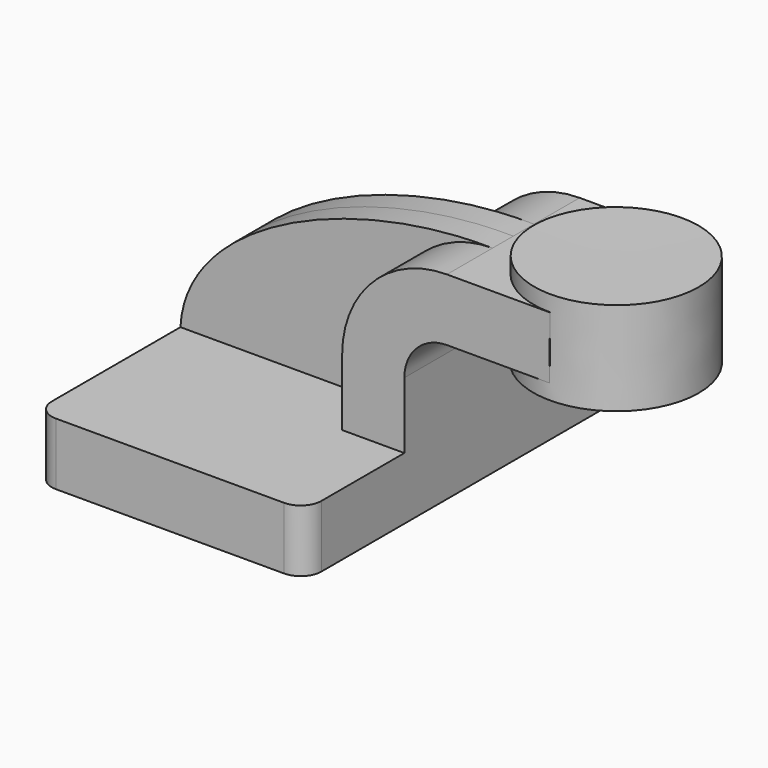
from build123d import *

# Parameters (mm, degrees)
F1_DEPTH = 63.5
F2_DEPTH = 25.4
F3_DEPTH = 7.9375
F5_R     = 6.35


with BuildPart() as f1:
    # F0 (on Front) → F1 (new body, symmetric)
    with BuildSketch(Plane.XZ):
        Polygon((41.275, -9.525), (41.275, 9.525), (22.225, 9.525), (-41.275, 9.525), (-41.275, -9.525), align=None)
    extrude(amount=F1_DEPTH, both=True)

    # F0 (on Front) → F2 (join, symmetric)
    with BuildSketch(Plane.XZ):
        with BuildLine():
            Line((22.225, 9.525), (41.275, 9.525))
            Line((41.275, 9.525), (41.275, 29.8368146303))
            ThreePointArc((41.275, 29.8368146303), (45.0938546591, 39.0563453409), (54.3133853697, 42.8752))
            Line((54.3133853697, 42.8752), (60.325, 42.8752))
            Line((60.325, 42.8752), (60.325, 61.9252))
            Line((60.325, 61.9252), (54.3133853697, 61.9252))
            ThreePointArc((54.3133853697, 61.9252), (31.6234704775, 52.5267295225), (22.225, 29.8368146303))
            Line((22.225, 29.8368146303), (22.225, 9.525))
        make_face()
        Polygon((60.325, 61.9252), (60.325, 42.8752), (85.746810308, 42.8752), (85.8338195154, 61.9252), align=None)
    extrude(amount=F2_DEPTH, both=True)

    # F0 (on Front) → F3 (join, symmetric)
    with BuildSketch(Plane.XZ):
        with BuildLine():
            Line((-41.275, 9.525), (22.225, 9.525))
            Line((22.225, 9.525), (22.225, 29.8368146303))
            ThreePointArc((22.225, 29.8368146303), (31.6234704775, 52.5267295225), (54.3133853697, 61.9252))
            add(Edge.make_bspline(
                [(-41.275, 9.525), (-39.7076308727, 40.4430106282), (10.2256173268, 62.635563314), (54.3133853697, 61.9252)],
                knots=[0, 0, 0, 0, 109.0088087157, 109.0088087157, 109.0088087157, 109.0088087157], degree=3))
        make_face()
    extrude(amount=F3_DEPTH, both=True)

    # F0 (on Front) → F4 (revolve)
    with BuildSketch(Plane.XZ):
        Polygon((85.8338195154, 61.9252), (85.746810308, 42.8752), (85.725, 38.1), (111.125, 38.1), (111.125, 66.675), (85.8555138111, 66.675), align=None)
    revolve(axis=Axis((85.7902569056, 0, 52.3875), (0.0045673648, 0, 0.9999895695)))

    # F5
    f5_edges = [f1.edges().sort_by_distance(p)[0] for p in [
        (-41.275, -63.5, 0),
        (41.275, -63.5, 0),
        (41.275, 63.5, 0),
        (-41.275, 63.5, 0),
    ]]
    fillet(f5_edges, radius=F5_R)


solid = f1.part
